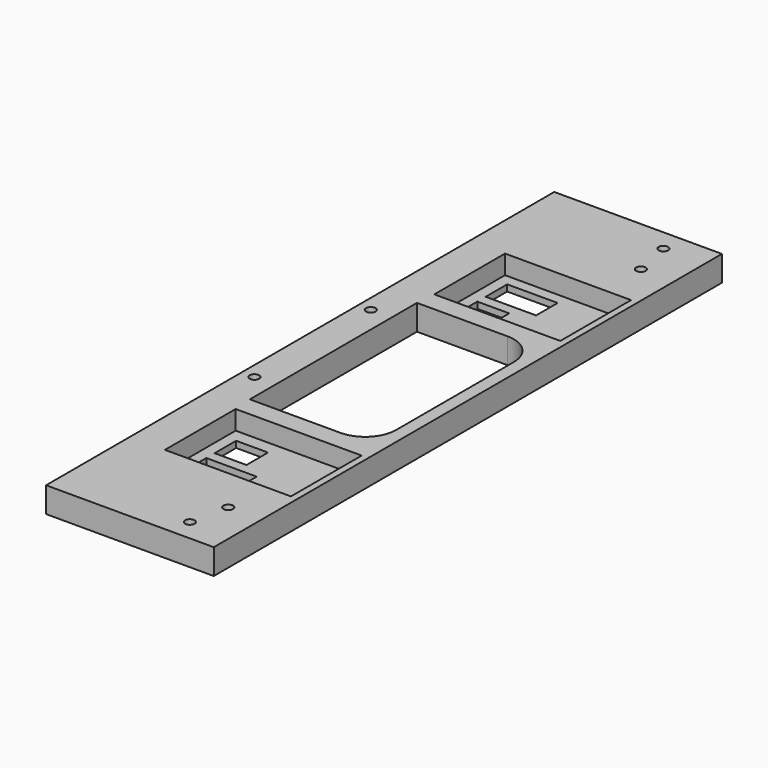
from build123d import *

# Parameters (mm, degrees)
F0_W     = 83.82
F0_H     = 317.5
F0_R     = 2.38125
F1_DEPTH = 12.7
F2_W     = 62.992
F2_H     = 44.196
F3_DEPTH = 9.525
F4_W     = 15.9385
F4_H     = 13.462
F4_W_2   = 25.2222
F5_DEPTH = 3.176


with BuildPart() as f1:
    # F0 (on Top) → F1 (new body)
    with BuildSketch(Plane.XY):
        with Locations((-41.91, 158.75)):
            Rectangle(F0_W, F0_H)
        with Locations((-77.47, 122.2502)):
            Circle(F0_R, mode=Mode.SUBTRACT)
        with Locations((-20.5994, 10.795)):
            Circle(F0_R, mode=Mode.SUBTRACT)
        with Locations((-16.637, 29.845)):
            Circle(F0_R, mode=Mode.SUBTRACT)
        with BuildLine():
            ThreePointArc((-6.3246, 121.793), (-10.840369, 110.890969), (-21.7424, 106.3752))
            Line((-21.7424, 106.3752), (-36.2458, 106.3752))
            Line((-36.2458, 106.3752), (-67.0814, 106.3752))
            Line((-67.0814, 106.3752), (-67.0814, 137.2108))
            Line((-67.0814, 137.2108), (-67.0814, 179.9844))
            Line((-67.0814, 179.9844), (-67.0814, 210.82))
            Line((-67.0814, 210.82), (-36.2458, 210.82))
            Line((-36.2458, 210.82), (-21.7424, 210.82))
            ThreePointArc((-21.7424, 210.82), (-10.840369, 206.304231), (-6.3246, 195.4022))
            Line((-6.3246, 195.4022), (-6.3246, 121.793))
        make_face(mode=Mode.SUBTRACT)
        with Locations((-77.47, 194.945)):
            Circle(F0_R, mode=Mode.SUBTRACT)
        with Locations((-16.637, 287.655)):
            Circle(F0_R, mode=Mode.SUBTRACT)
        with Locations((-20.5994, 306.705)):
            Circle(F0_R, mode=Mode.SUBTRACT)
    extrude(amount=F1_DEPTH)

    # F2 (on face) → F3 (cut)
    with BuildSketch(Plane.XY.offset(12.7)):
        with Locations((-34.798, 74.4474)):
            Rectangle(F2_W, F2_H)
        with Locations((-34.798, 242.7478)):
            Rectangle(F2_W, F2_H)
    extrude(amount=-F3_DEPTH, mode=Mode.SUBTRACT)

    # F4 (on face) → F5 (cut, through all)
    with BuildSketch(Plane.XY.offset(3.175)):
        with Locations((-52.83835, 233.934)):
            Rectangle(F4_W, F4_H)
        with Locations((-48.1965, 252.603)):
            Rectangle(F4_W_2, F4_H)
        with Locations((-52.83835, 83.2612)):
            Rectangle(F4_W, F4_H)
        with Locations((-48.1965, 64.5922)):
            Rectangle(F4_W_2, F4_H)
    extrude(amount=-F5_DEPTH, mode=Mode.SUBTRACT)


solid = f1.part
